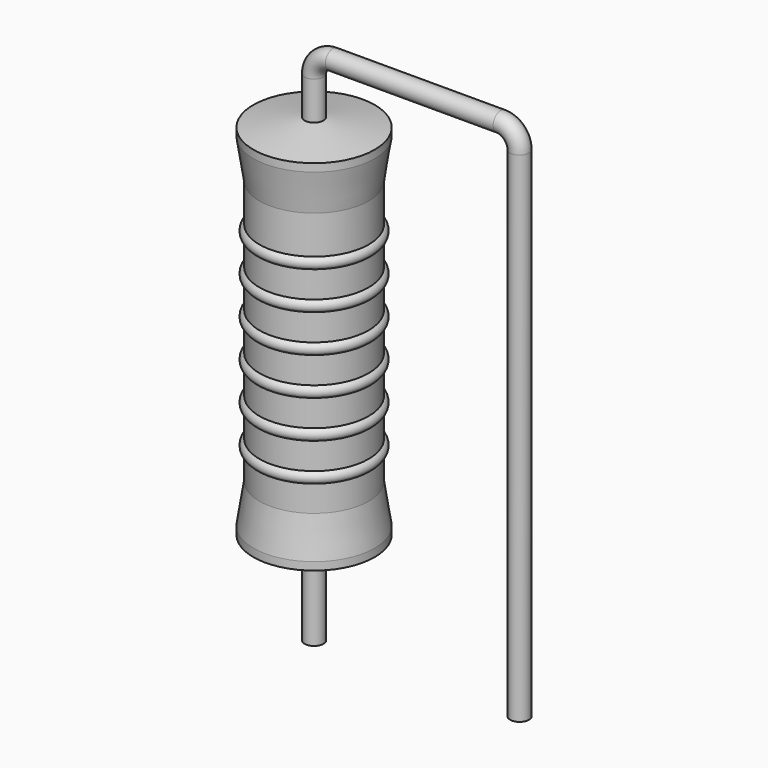
from build123d import *

# Parameters (mm, degrees)
SKETCH_R = 0.35


with BuildPart() as sweep_body:
    # Sweep: sweep along a path in Sketch001
    with BuildLine(Plane.XZ) as sweep_path:
        Line((0, -3), (0, 15.5))
        ThreePointArc((0, 15.5), (0.205022, 15.994972), (0.699992, 16.2))
        Line((0.699992, 16.2), (6.92, 16.2))
        ThreePointArc((6.92, 16.2), (7.414975, 15.994975), (7.62, 15.5))
        Line((7.62, 15.5), (7.62, -3))
    # Sketch → Sweep (sweep)
    with BuildSketch(Plane.XY.offset(-2)):
        Circle(SKETCH_R)
    sweep(path=sweep_path.line)


with BuildPart() as revolution:
    # Sketch002 → Revolution (revolve)
    with BuildSketch(Plane.XZ):
        Polygon((0, 0.1), (0, 14.1), (0.2625, 14.1), (2.25, 13.75), (2.25, 13.4575), (2.025, 12), (2.025, 2.2), (2.25, 0.7425), (2.25, 0.45), (0.2625, 0.1), align=None)
    revolve(axis=Axis((0, 0, 0), (0, 0, 1)))


with BuildPart() as revolution001:
    # Sketch003 → Revolution001 (revolve)
    with BuildSketch(Plane.XZ):
        with BuildLine():
            Line((1.8, 11.55), (1.8, 2.2))
            Line((1.8, 2.2), (1.935, 2.2))
            Line((1.935, 2.2), (1.935, 3.15))
            ThreePointArc((1.935, 3.15), (2.16, 3.375), (1.935, 3.6))
            Line((1.935, 3.6), (1.935, 4.55))
            ThreePointArc((1.935, 4.55), (2.16, 4.775), (1.935, 5))
            Line((1.935, 5), (1.935, 5.95))
            ThreePointArc((1.935, 5.95), (2.16, 6.175), (1.935, 6.4))
            Line((1.935, 6.4), (1.935, 7.35))
            ThreePointArc((1.935, 7.35), (2.16, 7.575), (1.935, 7.8))
            Line((1.935, 7.8), (1.935, 8.75))
            ThreePointArc((1.935, 8.75), (2.16, 8.975), (1.935, 9.2))
            Line((1.935, 9.2), (1.935, 10.15))
            ThreePointArc((1.935, 10.15), (2.16, 10.375), (1.935, 10.6))
            Line((1.935, 11.55), (1.935, 10.6))
            Line((1.8, 11.55), (1.935, 11.55))
        make_face()
    revolve(axis=Axis((0, 0, 0), (0, 0, 1)))


solid = Compound([sweep_body.part, revolution.part, revolution001.part])
